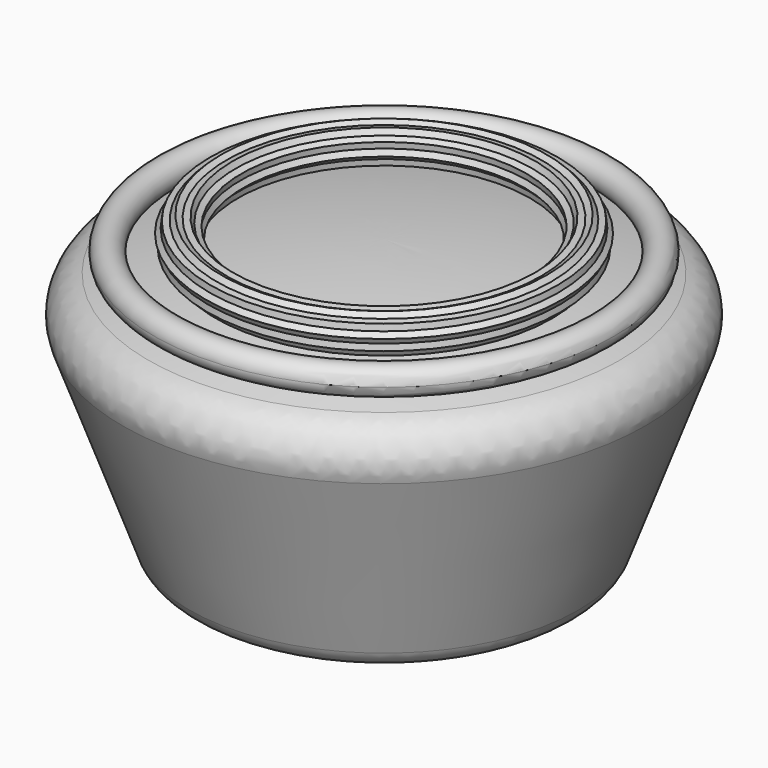
from build123d import *

# Parameters (mm, degrees)
F2_R = 3
F3_R = 4
F4_R = 1.5


with BuildPart() as f1:
    # F0 (on Front) → F1 (revolve)
    with BuildSketch(Plane.XZ):
        with BuildLine():
            Line((20, 0), (29.319549, 25.605251))
            ThreePointArc((29.319549, 25.605251), (14.823544, 28.89521), (0, 30))
            Line((0, 30), (0, 0))
            Line((0, 0), (20, 0))
        make_face()
    revolve(axis=Axis((0, 0, 15), (0, 0, 1)))

    # F2
    f2_edges = [f1.edges().sort_by_distance(p)[0] for p in [
        (-20, 0, 0),
    ]]
    fillet(f2_edges, radius=F2_R)

    # F3
    f3_edges = [f1.edges().sort_by_distance(p)[0] for p in [
        (-29.319549, 0, 25.605251),
    ]]
    fillet(f3_edges, radius=F3_R)

    # F4 (on Front) → F5 (revolve)
    with BuildSketch(Plane.XZ):
        with Locations((23, 28.859749)):
            Circle(F4_R)
    revolve(axis=Axis((0, 0, 15), (0, 0, 1)))


with BuildPart() as f6:
    # F4 (on Front) → F6 (revolve)
    with BuildSketch(Plane.XZ):
        Polygon((17.811632, 31.784052), (17.344073, 32.261941), (16.745091, 31.964942), (16.085932, 32.076738), (15.775916, 31.484388), (15.176934, 31.18739), (15.274301, 30.525946), (14.964285, 29.933596), (15.431843, 29.455707), (15.52921, 28.794263), (16.188368, 28.682467), (16.655927, 28.204578), (17.254909, 28.501577), (17.914068, 28.389781), (18.224084, 28.982131), (18.823066, 29.27913), (18.725699, 29.940573), (19.035715, 30.532924), (18.568157, 31.010812), (18.47079, 31.672256), align=None)
    revolve(axis=Axis((0, 0, 15), (0, 0, 1)))


solid = Compound([f1.part, f6.part])
